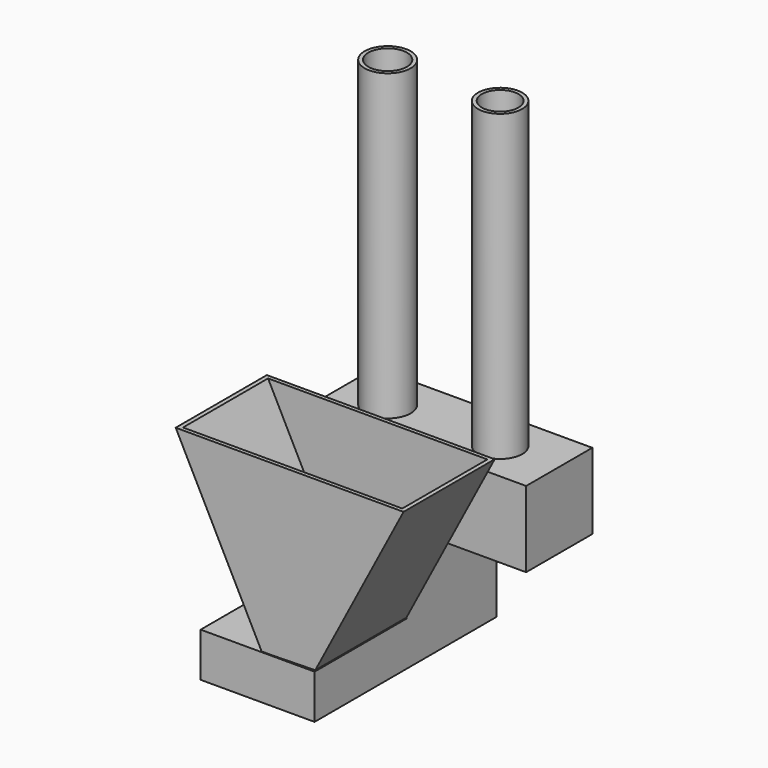
from build123d import *

# Parameters (mm, degrees)
F1_DEPTH = 76.2
F2_T     = -2.54
F3_W     = 144.9953940939
F3_H     = 55.3271894277
F3_R     = 12.7
F4_DEPTH = 50.8
F5_R     = 14.7965587388
F5_R_2   = 15.4277333538
F6_DEPTH = 254
F8_DEPTH = 76.2
F9_T     = -2.54


with BuildPart() as f1:
    # F0 (on Front) → F1 (new body)
    with BuildSketch(Plane.XZ):
        Polygon((58.970191346, 67.3783349957), (-93.429808654, 67.3783349957), (-35.8631499112, -45.8253743127), (-0.0760250571, -45.0607344085), align=None)
    extrude(amount=F1_DEPTH)

    # F2
    f2_openings = [f1.faces().sort_by_distance(p)[0] for p in [
        (-17.229809, -38.1, 67.378335),
        (-17.969587, -38.1, -45.443054),
    ]]
    offset(amount=F2_T, openings=f2_openings)


with BuildPart() as f4:
    # F3 (on Top) → F4 (new body)
    with BuildSketch(Plane.XY):
        with Locations((-1.7121303827, 39.1846336424)):
            Rectangle(F3_W, F3_H)
        with Locations((-41.7766466267, 38.7076750335)):
            Circle(F3_R, mode=Mode.SUBTRACT)
        with Locations((32.1519262469, 37.2767992068)):
            Circle(F3_R, mode=Mode.SUBTRACT)
    extrude(amount=F4_DEPTH)

    # F5 (on Top) → F6 (join)
    with BuildSketch(Plane.XY):
        with Locations((31.8746976554, 38.4125187993)):
            Circle(F5_R)
        with Locations((-43.0200658739, 38.0264669657)):
            Circle(F5_R_2)
    extrude(amount=F6_DEPTH)

    # F9
    f9_openings = [f4.faces().sort_by_distance(p)[0] for p in [
        (31.874698, 38.412519, 254),
        (-43.020066, 38.026467, 254),
    ]]
    offset(amount=F9_T, openings=f9_openings, kind=Kind.INTERSECTION)


with BuildPart() as f8:
    # F7 (on Right) → F8 (new body)
    with BuildSketch(Plane.YZ):
        Polygon((75.4367336631, 0), (0, 0), (0, -45.6552617252), (-76.8776759505, -45.6552617252), (-76.8776759505, -75.2183869481), (75.4367336631, -75.2183869481), align=None)
    extrude(amount=-F8_DEPTH)


solid = Compound([f1.part, f4.part, f8.part])
